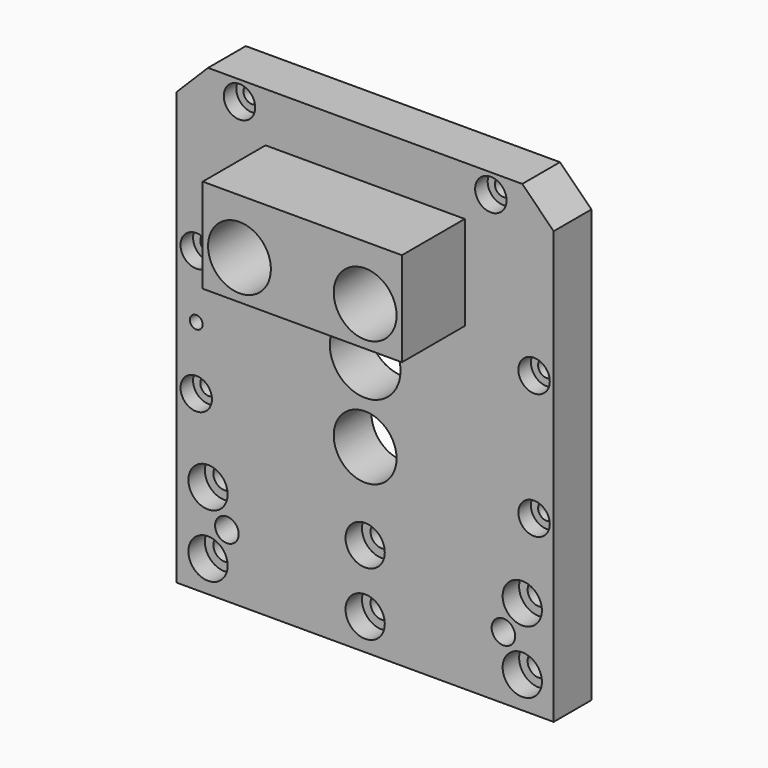
from build123d import *

# Parameters (mm, degrees)
F0_W            = 76.2
F0_H            = 93.6498
F1_DEPTH        = 9.525
F2_W            = 40.259
F2_H            = 19.05
F3_DEPTH        = 15.875
F4_R            = 7.14375
F5_DEPTH        = 9.526
F6_R            = 6.35
F7_DEPTH        = 9.526
F8_R            = 6.35
F9_DEPTH        = 25.401
F10_R           = 2.38125
F11_DEPTH       = 9.526
F12_SIZE        = 6.35
F14_D           = 4.4958
F14_CBORE_D     = 7.9375
F14_CBORE_DEPTH = 4.1656
F16_D           = 3.4544
F16_CBORE_D     = 6.35
F16_CBORE_DEPTH = 3.175
F18_D           = 2.5908


with BuildPart() as f1:
    # F0 (on Front) → F1 (new body)
    with BuildSketch(Plane.XZ):
        Rectangle(F0_W, F0_H)
    extrude(amount=F1_DEPTH)

    # F2 (on face) → F3 (join)
    with BuildSketch(Plane.XZ.offset(9.525)):
        with Locations((0, 27.2923)):
            Rectangle(F2_W, F2_H)
    extrude(amount=F3_DEPTH)

    # F4 (on face) → F5 (cut, through all)
    with BuildSketch(Plane.XZ.offset(9.525)):
        with Locations((0, 5.5753)):
            Circle(F4_R)
    extrude(amount=-F5_DEPTH, mode=Mode.SUBTRACT)

    # F6 (on face) → F7 (cut, through all)
    with BuildSketch(Plane.XZ.offset(9.525)):
        with Locations((0, -10.2997)):
            Circle(F6_R)
    extrude(amount=-F7_DEPTH, mode=Mode.SUBTRACT)

    # F8 (on face) → F9 (cut, through all)
    with BuildSketch(Plane.XZ.offset(25.4)):
        with Locations((-12.7, 25.7175)):
            Circle(F8_R)
        with Locations((12.7, 25.7175)):
            Circle(F8_R)
    extrude(amount=-F9_DEPTH, mode=Mode.SUBTRACT)

    # F10 (on face) → F11 (cut, through all)
    with BuildSketch(Plane.XZ.offset(9.525)):
        with Locations((-27.94, -34.1249)):
            Circle(F10_R)
        with Locations((27.94, -34.1249)):
            Circle(F10_R)
    extrude(amount=-F11_DEPTH, mode=Mode.SUBTRACT)

    # F12
    f12_edges = [f1.edges().sort_by_distance(p)[0] for p in [
        (38.1, -4.7625, 46.8249),
        (-38.1, -4.7625, 46.8249),
    ]]
    chamfer(f12_edges, length=F12_SIZE)

    # F14 (through all)
    with Locations(Plane.XZ.offset(9.525)):
        with Locations((-31.75, -27.7749), (-31.75, -40.4749), (31.75, -40.4749), (31.75, -27.7749), (0, -27.7749), (0, -40.4749)):
            CounterBoreHole(F14_D / 2, F14_CBORE_D / 2, F14_CBORE_DEPTH)

    # F16 (through all)
    with Locations(Plane.XZ.offset(9.525)):
        with Locations((-25.4, 42.8625), (25.4, 42.8625), (34.1376, 13.5001), (34.1376, -11.8999), (-34.1376, -11.8999), (-34.1376, 13.5001)):
            CounterBoreHole(F16_D / 2, F16_CBORE_D / 2, F16_CBORE_DEPTH)

    # F18 (through all)
    with Locations(Plane.XZ.offset(9.525)):
        with Locations((-34.1376, 0.8001)):
            Hole(F18_D / 2)


solid = f1.part
